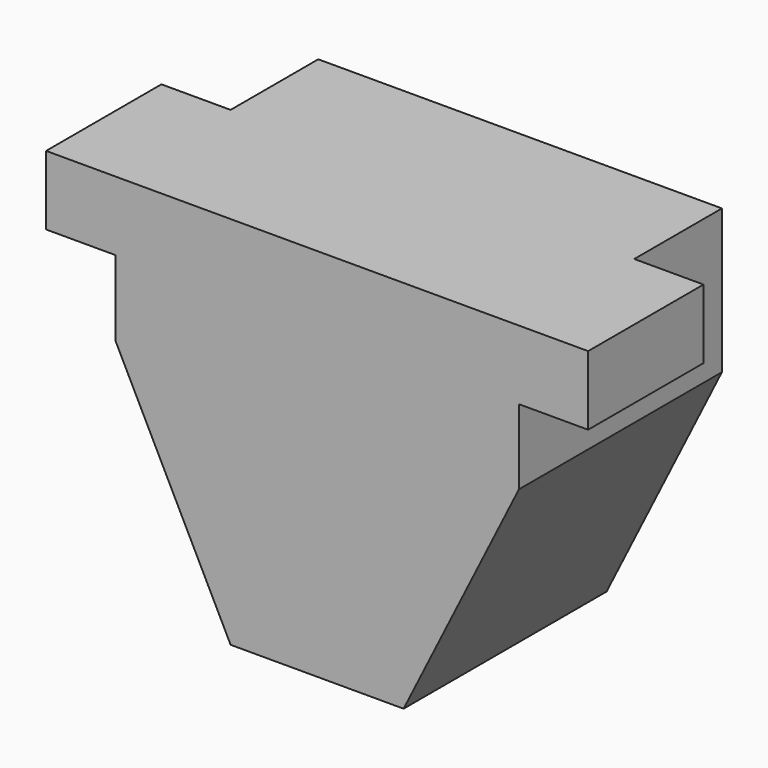
from build123d import *

# Parameters (mm, degrees)
F1_DEPTH = 44
F2_W     = 25
F2_H     = 12
F3_DEPTH = 12
F4_W     = 25
F4_H     = 12
F5_DEPTH = 12


with BuildPart() as f1:
    # F0 (on Front) → F1 (new body)
    with BuildSketch(Plane.XZ):
        Polygon((-35, 7.5), (-15, -32.5), (15, -32.5), (35, 7.5), (35, 32.5), (-35, 32.5), align=None)
    extrude(amount=F1_DEPTH)

    # F2 (on face) → F3 (join)
    with BuildSketch(Plane(origin=(-35, 0, 0), x_dir=(0, -1, 0), z_dir=(-1, 0, 0))):
        with Locations((31.5, 26.5)):
            Rectangle(F2_W, F2_H)
    extrude(amount=F3_DEPTH)

    # F4 (on face) → F5 (join)
    with BuildSketch(Plane.YZ.offset(35)):
        with Locations((-31.5, 26.5)):
            Rectangle(F4_W, F4_H)
    extrude(amount=F5_DEPTH)


solid = f1.part
